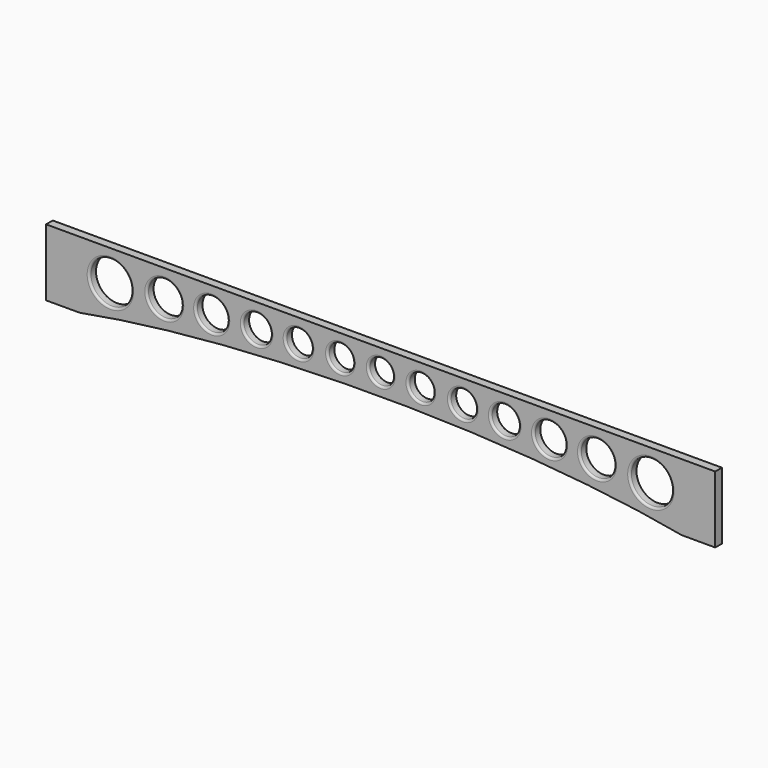
from build123d import *

# Parameters (mm, degrees)
F0_R     = 64.1453349798
F0_R_2   = 52.9185600819
F0_R_3   = 48.5710741987
F0_R_4   = 43.1191921234
F0_R_5   = 40.3025068018
F0_R_6   = 38.8568299622
F0_R_7   = 37.3129168507
F1_DEPTH = 25.4
F2_R     = 6.35
F3_R     = 6.35


with BuildPart() as f1:
    # F0 (on Front) → F1 (new body)
    with BuildSketch(Plane.XZ):
        with BuildLine():
            Line((931.926001966, 136.000804468), (-1100.073998034, 136.000804468))
            Line((-1100.073998034, 136.000804468), (-1100.073998034, -67.199195532))
            Line((-1100.073998034, -67.199195532), (-998.473998034, -67.199195532))
            add(Edge.make_bspline(
                [(830.326001966, -67.199195532), (-84.073998034, 105.847695238), (-998.473998034, -67.199195532)],
                knots=[0.8212687708, 0.8212687708, 0.8212687708, 2.3203238827, 2.3203238827, 2.3203238827], degree=2, weights=[1, 0.7320108234, 1]))
            Line((830.326001966, -67.199195532), (931.926001966, -67.199195532))
            Line((931.926001966, -67.199195532), (931.926001966, 136.000804468))
        make_face()
        with Locations((-904.7383069992, 42.5549782813)):
            Circle(F0_R, mode=Mode.SUBTRACT)
        with Locations((-741.1376833916, 53.2243549824)):
            Circle(F0_R_2, mode=Mode.SUBTRACT)
        with Locations((-597.1077680588, 58.3682768047)):
            Circle(F0_R_3, mode=Mode.SUBTRACT)
        with Locations((-460.7937335968, 63.5122060776)):
            Circle(F0_R_4, mode=Mode.SUBTRACT)
        with Locations((-333.481580019, 66.0841688514)):
            Circle(F0_R_5, mode=Mode.SUBTRACT)
        with Locations((-206.1694264412, 68.6561241746)):
            Circle(F0_R_6, mode=Mode.SUBTRACT)
        with Locations((-84.073998034, 70.9687621523)):
            Circle(F0_R_7, mode=Mode.SUBTRACT)
        with Locations((38.0214303732, 68.6561241746)):
            Circle(F0_R_6, mode=Mode.SUBTRACT)
        with Locations((165.333583951, 66.0841688514)):
            Circle(F0_R_5, mode=Mode.SUBTRACT)
        with Locations((292.6457375288, 63.5122060776)):
            Circle(F0_R_4, mode=Mode.SUBTRACT)
        with Locations((428.9597719908, 58.3682768047)):
            Circle(F0_R_3, mode=Mode.SUBTRACT)
        with Locations((572.9896873236, 53.2243549824)):
            Circle(F0_R_2, mode=Mode.SUBTRACT)
        with Locations((736.5903109312, 42.5549782813)):
            Circle(F0_R, mode=Mode.SUBTRACT)
    extrude(amount=F1_DEPTH)

    # F2
    f2_edges = [f1.edges().sort_by_distance(p)[0] for p in [
        (-968.883642, -25.4, 42.554978),
    ]]
    fillet(f2_edges, radius=F2_R)

    # F3
    f3_edges = [f1.edges().sort_by_distance(p)[0] for p in [
        (-794.056243, -25.4, 53.224355),
        (-645.678842, -25.4, 58.368277),
        (-503.912926, -25.4, 63.512206),
        (-373.784087, -25.4, 66.084169),
        (-245.026256, -25.4, 68.656124),
        (-121.386915, -25.4, 70.968762),
        (-0.8354, -25.4, 68.656124),
        (125.031077, -25.4, 66.084169),
        (249.526545, -25.4, 63.512206),
        (380.388698, -25.4, 58.368277),
        (520.071127, -25.4, 53.224355),
        (672.444976, -25.4, 42.554978),
    ]]
    fillet(f3_edges, radius=F3_R)


solid = f1.part
